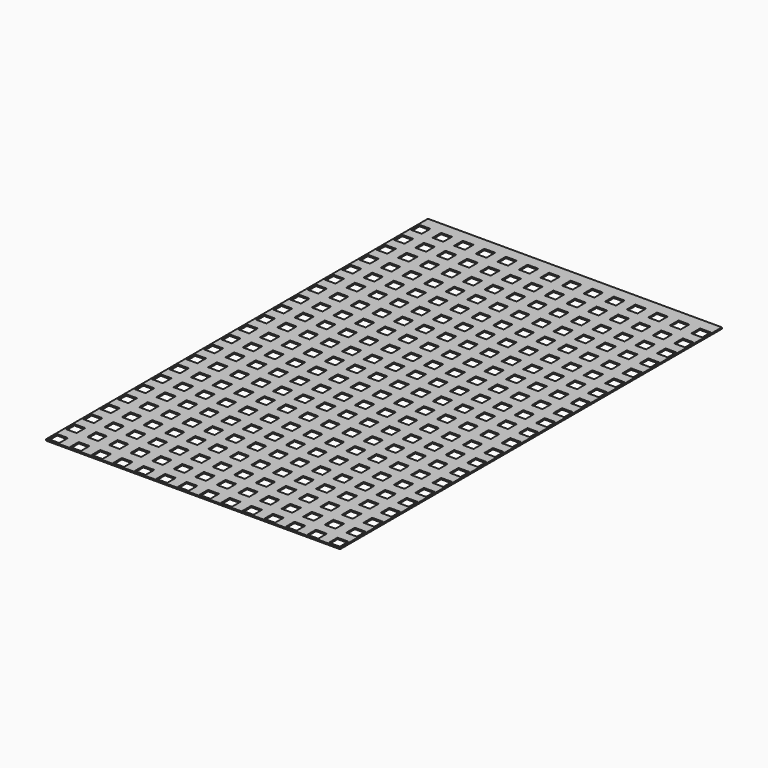
from build123d import *

# Parameters (mm, degrees)
F0_W     = 346.075
F0_H     = 561.975
F0_W_2   = 12.7
F0_H_2   = 12.7
F1_DEPTH = 1.5875


with BuildPart() as f1:
    # F0 (on Top) → F1 (new body)
    with BuildSketch(Plane.XY):
        with Locations((165.1, 273.05)):
            Rectangle(F0_W, F0_H)
        Polygon((-6.35, -6.35), (-6.35, 6.35), (-6.35, 19.05), (-6.35, 31.75), (-6.35, 44.45), (-6.35, 57.15), (-6.35, 69.85), (-6.35, 82.55), (-6.35, 95.25), (-6.35, 107.95), (-6.35, 120.65), (-6.35, 133.35), (-6.35, 146.05), (-6.35, 158.75), (-6.35, 171.45), (-6.35, 184.15), (-6.35, 196.85), (-6.35, 209.55), (-6.35, 222.25), (-6.35, 234.95), (-6.35, 247.65), (-6.35, 260.35), (-6.35, 273.05), (-6.35, 285.75), (-6.35, 298.45), (-6.35, 311.15), (-6.35, 323.85), (-6.35, 336.55), (-6.35, 349.25), (-6.35, 361.95), (-6.35, 374.65), (-6.35, 387.35), (-6.35, 400.05), (-6.35, 412.75), (-6.35, 425.45), (-6.35, 438.15), (-6.35, 450.85), (-6.35, 463.55), (-6.35, 476.25), (-6.35, 488.95), (-6.35, 501.65), (-6.35, 514.35), (-6.35, 527.05), (-6.35, 539.75), (-6.35, 552.45), (336.55, 552.45), (336.55, 539.75), (336.55, 527.05), (336.55, 514.35), (336.55, 501.65), (336.55, 488.95), (336.55, 476.25), (336.55, 463.55), (336.55, 450.85), (336.55, 438.15), (336.55, 425.45), (336.55, 412.75), (336.55, 400.05), (336.55, 387.35), (336.55, 374.65), (336.55, 361.95), (336.55, 349.25), (336.55, 336.55), (336.55, 323.85), (336.55, 311.15), (336.55, 298.45), (336.55, 285.75), (336.55, 273.05), (336.55, 260.35), (336.55, 247.65), (336.55, 234.95), (336.55, 222.25), (336.55, 209.55), (336.55, 196.85), (336.55, 184.15), (336.55, 171.45), (336.55, 158.75), (336.55, 146.05), (336.55, 133.35), (336.55, 120.65), (336.55, 107.95), (336.55, 95.25), (336.55, 82.55), (336.55, 69.85), (336.55, 57.15), (336.55, 44.45), (336.55, 31.75), (336.55, 19.05), (336.55, 6.35), (336.55, -6.35), (323.85, -6.35), (311.15, -6.35), (298.45, -6.35), (285.75, -6.35), (273.05, -6.35), (260.35, -6.35), (247.65, -6.35), (234.95, -6.35), (222.25, -6.35), (209.55, -6.35), (196.85, -6.35), (184.15, -6.35), (171.45, -6.35), (158.75, -6.35), (146.05, -6.35), (133.35, -6.35), (120.65, -6.35), (107.95, -6.35), (95.25, -6.35), (82.55, -6.35), (69.85, -6.35), (57.15, -6.35), (44.45, -6.35), (31.75, -6.35), (19.05, -6.35), (6.35, -6.35), align=None, mode=Mode.SUBTRACT)
        Polygon((-6.35, 6.35), (6.35, 6.35), (6.35, -6.35), (19.05, -6.35), (19.05, 6.35), (31.75, 6.35), (31.75, -6.35), (44.45, -6.35), (44.45, 6.35), (57.15, 6.35), (57.15, -6.35), (69.85, -6.35), (69.85, 6.35), (82.55, 6.35), (82.55, -6.35), (95.25, -6.35), (95.25, 6.35), (107.95, 6.35), (107.95, -6.35), (120.65, -6.35), (120.65, 6.35), (133.35, 6.35), (133.35, -6.35), (146.05, -6.35), (146.05, 6.35), (158.75, 6.35), (158.75, -6.35), (171.45, -6.35), (171.45, 6.35), (184.15, 6.35), (184.15, -6.35), (196.85, -6.35), (196.85, 6.35), (209.55, 6.35), (209.55, -6.35), (222.25, -6.35), (222.25, 6.35), (234.95, 6.35), (234.95, -6.35), (247.65, -6.35), (247.65, 6.35), (260.35, 6.35), (260.35, -6.35), (273.05, -6.35), (273.05, 6.35), (285.75, 6.35), (285.75, -6.35), (298.45, -6.35), (298.45, 6.35), (311.15, 6.35), (311.15, -6.35), (323.85, -6.35), (323.85, 6.35), (336.55, 6.35), (336.55, 19.05), (323.85, 19.05), (323.85, 31.75), (336.55, 31.75), (336.55, 44.45), (323.85, 44.45), (323.85, 57.15), (336.55, 57.15), (336.55, 69.85), (323.85, 69.85), (323.85, 82.55), (336.55, 82.55), (336.55, 95.25), (323.85, 95.25), (323.85, 107.95), (336.55, 107.95), (336.55, 120.65), (323.85, 120.65), (323.85, 133.35), (336.55, 133.35), (336.55, 146.05), (323.85, 146.05), (323.85, 158.75), (336.55, 158.75), (336.55, 171.45), (323.85, 171.45), (323.85, 184.15), (336.55, 184.15), (336.55, 196.85), (323.85, 196.85), (323.85, 209.55), (336.55, 209.55), (336.55, 222.25), (323.85, 222.25), (323.85, 234.95), (336.55, 234.95), (336.55, 247.65), (323.85, 247.65), (323.85, 260.35), (336.55, 260.35), (336.55, 273.05), (323.85, 273.05), (323.85, 285.75), (336.55, 285.75), (336.55, 298.45), (323.85, 298.45), (323.85, 311.15), (336.55, 311.15), (336.55, 323.85), (323.85, 323.85), (323.85, 336.55), (336.55, 336.55), (336.55, 349.25), (323.85, 349.25), (323.85, 361.95), (336.55, 361.95), (336.55, 374.65), (323.85, 374.65), (323.85, 387.35), (336.55, 387.35), (336.55, 400.05), (323.85, 400.05), (323.85, 412.75), (336.55, 412.75), (336.55, 425.45), (323.85, 425.45), (323.85, 438.15), (336.55, 438.15), (336.55, 450.85), (323.85, 450.85), (323.85, 463.55), (336.55, 463.55), (336.55, 476.25), (323.85, 476.25), (323.85, 488.95), (336.55, 488.95), (336.55, 501.65), (323.85, 501.65), (323.85, 514.35), (336.55, 514.35), (336.55, 527.05), (323.85, 527.05), (323.85, 539.75), (336.55, 539.75), (336.55, 552.45), (-6.35, 552.45), (-6.35, 539.75), (6.35, 539.75), (6.35, 527.05), (-6.35, 527.05), (-6.35, 514.35), (6.35, 514.35), (6.35, 501.65), (-6.35, 501.65), (-6.35, 488.95), (6.35, 488.95), (6.35, 476.25), (-6.35, 476.25), (-6.35, 463.55), (6.35, 463.55), (6.35, 450.85), (-6.35, 450.85), (-6.35, 438.15), (6.35, 438.15), (6.35, 425.45), (-6.35, 425.45), (-6.35, 412.75), (6.35, 412.75), (6.35, 400.05), (-6.35, 400.05), (-6.35, 387.35), (6.35, 387.35), (6.35, 374.65), (-6.35, 374.65), (-6.35, 361.95), (6.35, 361.95), (6.35, 349.25), (-6.35, 349.25), (-6.35, 336.55), (6.35, 336.55), (6.35, 323.85), (-6.35, 323.85), (-6.35, 311.15), (6.35, 311.15), (6.35, 298.45), (-6.35, 298.45), (-6.35, 285.75), (6.35, 285.75), (6.35, 273.05), (-6.35, 273.05), (-6.35, 260.35), (6.35, 260.35), (6.35, 247.65), (-6.35, 247.65), (-6.35, 234.95), (6.35, 234.95), (6.35, 222.25), (-6.35, 222.25), (-6.35, 209.55), (6.35, 209.55), (6.35, 196.85), (-6.35, 196.85), (-6.35, 184.15), (6.35, 184.15), (6.35, 171.45), (-6.35, 171.45), (-6.35, 158.75), (6.35, 158.75), (6.35, 146.05), (-6.35, 146.05), (-6.35, 133.35), (6.35, 133.35), (6.35, 120.65), (-6.35, 120.65), (-6.35, 107.95), (6.35, 107.95), (6.35, 95.25), (-6.35, 95.25), (-6.35, 82.55), (6.35, 82.55), (6.35, 69.85), (-6.35, 69.85), (-6.35, 57.15), (6.35, 57.15), (6.35, 44.45), (-6.35, 44.45), (-6.35, 31.75), (6.35, 31.75), (6.35, 19.05), (-6.35, 19.05), align=None)
        with Locations((25.4, 25.4)):
            Rectangle(F0_W_2, F0_H_2, mode=Mode.SUBTRACT)
        with Locations((25.4, 50.8)):
            Rectangle(F0_W_2, F0_H_2, mode=Mode.SUBTRACT)
        with Locations((50.8, 25.4)):
            Rectangle(F0_W_2, F0_H_2, mode=Mode.SUBTRACT)
        with Locations((76.2, 25.4)):
            Rectangle(F0_W_2, F0_H_2, mode=Mode.SUBTRACT)
        with Locations((50.8, 50.8)):
            Rectangle(F0_W_2, F0_H_2, mode=Mode.SUBTRACT)
        with Locations((76.2, 50.8)):
            Rectangle(F0_W_2, F0_H_2, mode=Mode.SUBTRACT)
        with Locations((25.4, 76.2)):
            Rectangle(F0_W_2, F0_H_2, mode=Mode.SUBTRACT)
        with Locations((25.4, 101.6)):
            Rectangle(F0_W_2, F0_H_2, mode=Mode.SUBTRACT)
        with Locations((25.4, 127)):
            Rectangle(F0_W_2, F0_H_2, mode=Mode.SUBTRACT)
        with Locations((50.8, 76.2)):
            Rectangle(F0_W_2, F0_H_2, mode=Mode.SUBTRACT)
        with Locations((76.2, 76.2)):
            Rectangle(F0_W_2, F0_H_2, mode=Mode.SUBTRACT)
        with Locations((50.8, 101.6)):
            Rectangle(F0_W_2, F0_H_2, mode=Mode.SUBTRACT)
        with Locations((50.8, 127)):
            Rectangle(F0_W_2, F0_H_2, mode=Mode.SUBTRACT)
        with Locations((76.2, 101.6)):
            Rectangle(F0_W_2, F0_H_2, mode=Mode.SUBTRACT)
        with Locations((76.2, 127)):
            Rectangle(F0_W_2, F0_H_2, mode=Mode.SUBTRACT)
        with Locations((101.6, 25.4)):
            Rectangle(F0_W_2, F0_H_2, mode=Mode.SUBTRACT)
        with Locations((101.6, 50.8)):
            Rectangle(F0_W_2, F0_H_2, mode=Mode.SUBTRACT)
        with Locations((127, 25.4)):
            Rectangle(F0_W_2, F0_H_2, mode=Mode.SUBTRACT)
        with Locations((152.4, 25.4)):
            Rectangle(F0_W_2, F0_H_2, mode=Mode.SUBTRACT)
        with Locations((127, 50.8)):
            Rectangle(F0_W_2, F0_H_2, mode=Mode.SUBTRACT)
        with Locations((152.4, 50.8)):
            Rectangle(F0_W_2, F0_H_2, mode=Mode.SUBTRACT)
        with Locations((101.6, 76.2)):
            Rectangle(F0_W_2, F0_H_2, mode=Mode.SUBTRACT)
        with Locations((101.6, 101.6)):
            Rectangle(F0_W_2, F0_H_2, mode=Mode.SUBTRACT)
        with Locations((101.6, 127)):
            Rectangle(F0_W_2, F0_H_2, mode=Mode.SUBTRACT)
        with Locations((127, 76.2)):
            Rectangle(F0_W_2, F0_H_2, mode=Mode.SUBTRACT)
        with Locations((152.4, 76.2)):
            Rectangle(F0_W_2, F0_H_2, mode=Mode.SUBTRACT)
        with Locations((127, 101.6)):
            Rectangle(F0_W_2, F0_H_2, mode=Mode.SUBTRACT)
        with Locations((127, 127)):
            Rectangle(F0_W_2, F0_H_2, mode=Mode.SUBTRACT)
        with Locations((152.4, 101.6)):
            Rectangle(F0_W_2, F0_H_2, mode=Mode.SUBTRACT)
        with Locations((152.4, 127)):
            Rectangle(F0_W_2, F0_H_2, mode=Mode.SUBTRACT)
        with Locations((25.4, 152.4)):
            Rectangle(F0_W_2, F0_H_2, mode=Mode.SUBTRACT)
        with Locations((25.4, 177.8)):
            Rectangle(F0_W_2, F0_H_2, mode=Mode.SUBTRACT)
        with Locations((50.8, 152.4)):
            Rectangle(F0_W_2, F0_H_2, mode=Mode.SUBTRACT)
        with Locations((76.2, 152.4)):
            Rectangle(F0_W_2, F0_H_2, mode=Mode.SUBTRACT)
        with Locations((50.8, 177.8)):
            Rectangle(F0_W_2, F0_H_2, mode=Mode.SUBTRACT)
        with Locations((76.2, 177.8)):
            Rectangle(F0_W_2, F0_H_2, mode=Mode.SUBTRACT)
        with Locations((25.4, 203.2)):
            Rectangle(F0_W_2, F0_H_2, mode=Mode.SUBTRACT)
        with Locations((25.4, 228.6)):
            Rectangle(F0_W_2, F0_H_2, mode=Mode.SUBTRACT)
        with Locations((25.4, 254)):
            Rectangle(F0_W_2, F0_H_2, mode=Mode.SUBTRACT)
        with Locations((50.8, 203.2)):
            Rectangle(F0_W_2, F0_H_2, mode=Mode.SUBTRACT)
        with Locations((50.8, 228.6)):
            Rectangle(F0_W_2, F0_H_2, mode=Mode.SUBTRACT)
        with Locations((76.2, 203.2)):
            Rectangle(F0_W_2, F0_H_2, mode=Mode.SUBTRACT)
        with Locations((76.2, 228.6)):
            Rectangle(F0_W_2, F0_H_2, mode=Mode.SUBTRACT)
        with Locations((50.8, 254)):
            Rectangle(F0_W_2, F0_H_2, mode=Mode.SUBTRACT)
        with Locations((76.2, 254)):
            Rectangle(F0_W_2, F0_H_2, mode=Mode.SUBTRACT)
        with Locations((101.6, 152.4)):
            Rectangle(F0_W_2, F0_H_2, mode=Mode.SUBTRACT)
        with Locations((101.6, 177.8)):
            Rectangle(F0_W_2, F0_H_2, mode=Mode.SUBTRACT)
        with Locations((127, 152.4)):
            Rectangle(F0_W_2, F0_H_2, mode=Mode.SUBTRACT)
        with Locations((152.4, 152.4)):
            Rectangle(F0_W_2, F0_H_2, mode=Mode.SUBTRACT)
        with Locations((127, 177.8)):
            Rectangle(F0_W_2, F0_H_2, mode=Mode.SUBTRACT)
        with Locations((152.4, 177.8)):
            Rectangle(F0_W_2, F0_H_2, mode=Mode.SUBTRACT)
        with Locations((101.6, 203.2)):
            Rectangle(F0_W_2, F0_H_2, mode=Mode.SUBTRACT)
        with Locations((101.6, 228.6)):
            Rectangle(F0_W_2, F0_H_2, mode=Mode.SUBTRACT)
        with Locations((101.6, 254)):
            Rectangle(F0_W_2, F0_H_2, mode=Mode.SUBTRACT)
        with Locations((127, 203.2)):
            Rectangle(F0_W_2, F0_H_2, mode=Mode.SUBTRACT)
        with Locations((127, 228.6)):
            Rectangle(F0_W_2, F0_H_2, mode=Mode.SUBTRACT)
        with Locations((152.4, 203.2)):
            Rectangle(F0_W_2, F0_H_2, mode=Mode.SUBTRACT)
        with Locations((152.4, 228.6)):
            Rectangle(F0_W_2, F0_H_2, mode=Mode.SUBTRACT)
        with Locations((127, 254)):
            Rectangle(F0_W_2, F0_H_2, mode=Mode.SUBTRACT)
        with Locations((152.4, 254)):
            Rectangle(F0_W_2, F0_H_2, mode=Mode.SUBTRACT)
        with Locations((177.8, 25.4)):
            Rectangle(F0_W_2, F0_H_2, mode=Mode.SUBTRACT)
        with Locations((203.2, 25.4)):
            Rectangle(F0_W_2, F0_H_2, mode=Mode.SUBTRACT)
        with Locations((177.8, 50.8)):
            Rectangle(F0_W_2, F0_H_2, mode=Mode.SUBTRACT)
        with Locations((203.2, 50.8)):
            Rectangle(F0_W_2, F0_H_2, mode=Mode.SUBTRACT)
        with Locations((228.6, 25.4)):
            Rectangle(F0_W_2, F0_H_2, mode=Mode.SUBTRACT)
        with Locations((228.6, 50.8)):
            Rectangle(F0_W_2, F0_H_2, mode=Mode.SUBTRACT)
        with Locations((177.8, 76.2)):
            Rectangle(F0_W_2, F0_H_2, mode=Mode.SUBTRACT)
        with Locations((203.2, 76.2)):
            Rectangle(F0_W_2, F0_H_2, mode=Mode.SUBTRACT)
        with Locations((177.8, 101.6)):
            Rectangle(F0_W_2, F0_H_2, mode=Mode.SUBTRACT)
        with Locations((177.8, 127)):
            Rectangle(F0_W_2, F0_H_2, mode=Mode.SUBTRACT)
        with Locations((203.2, 101.6)):
            Rectangle(F0_W_2, F0_H_2, mode=Mode.SUBTRACT)
        with Locations((203.2, 127)):
            Rectangle(F0_W_2, F0_H_2, mode=Mode.SUBTRACT)
        with Locations((228.6, 76.2)):
            Rectangle(F0_W_2, F0_H_2, mode=Mode.SUBTRACT)
        with Locations((228.6, 101.6)):
            Rectangle(F0_W_2, F0_H_2, mode=Mode.SUBTRACT)
        with Locations((228.6, 127)):
            Rectangle(F0_W_2, F0_H_2, mode=Mode.SUBTRACT)
        with Locations((254, 25.4)):
            Rectangle(F0_W_2, F0_H_2, mode=Mode.SUBTRACT)
        with Locations((279.4, 25.4)):
            Rectangle(F0_W_2, F0_H_2, mode=Mode.SUBTRACT)
        with Locations((254, 50.8)):
            Rectangle(F0_W_2, F0_H_2, mode=Mode.SUBTRACT)
        with Locations((279.4, 50.8)):
            Rectangle(F0_W_2, F0_H_2, mode=Mode.SUBTRACT)
        with Locations((304.8, 25.4)):
            Rectangle(F0_W_2, F0_H_2, mode=Mode.SUBTRACT)
        with Locations((304.8, 50.8)):
            Rectangle(F0_W_2, F0_H_2, mode=Mode.SUBTRACT)
        with Locations((254, 76.2)):
            Rectangle(F0_W_2, F0_H_2, mode=Mode.SUBTRACT)
        with Locations((279.4, 76.2)):
            Rectangle(F0_W_2, F0_H_2, mode=Mode.SUBTRACT)
        with Locations((254, 101.6)):
            Rectangle(F0_W_2, F0_H_2, mode=Mode.SUBTRACT)
        with Locations((254, 127)):
            Rectangle(F0_W_2, F0_H_2, mode=Mode.SUBTRACT)
        with Locations((279.4, 101.6)):
            Rectangle(F0_W_2, F0_H_2, mode=Mode.SUBTRACT)
        with Locations((279.4, 127)):
            Rectangle(F0_W_2, F0_H_2, mode=Mode.SUBTRACT)
        with Locations((304.8, 76.2)):
            Rectangle(F0_W_2, F0_H_2, mode=Mode.SUBTRACT)
        with Locations((304.8, 101.6)):
            Rectangle(F0_W_2, F0_H_2, mode=Mode.SUBTRACT)
        with Locations((304.8, 127)):
            Rectangle(F0_W_2, F0_H_2, mode=Mode.SUBTRACT)
        with Locations((177.8, 152.4)):
            Rectangle(F0_W_2, F0_H_2, mode=Mode.SUBTRACT)
        with Locations((203.2, 152.4)):
            Rectangle(F0_W_2, F0_H_2, mode=Mode.SUBTRACT)
        with Locations((177.8, 177.8)):
            Rectangle(F0_W_2, F0_H_2, mode=Mode.SUBTRACT)
        with Locations((203.2, 177.8)):
            Rectangle(F0_W_2, F0_H_2, mode=Mode.SUBTRACT)
        with Locations((228.6, 152.4)):
            Rectangle(F0_W_2, F0_H_2, mode=Mode.SUBTRACT)
        with Locations((228.6, 177.8)):
            Rectangle(F0_W_2, F0_H_2, mode=Mode.SUBTRACT)
        with Locations((177.8, 203.2)):
            Rectangle(F0_W_2, F0_H_2, mode=Mode.SUBTRACT)
        with Locations((177.8, 228.6)):
            Rectangle(F0_W_2, F0_H_2, mode=Mode.SUBTRACT)
        with Locations((203.2, 203.2)):
            Rectangle(F0_W_2, F0_H_2, mode=Mode.SUBTRACT)
        with Locations((203.2, 228.6)):
            Rectangle(F0_W_2, F0_H_2, mode=Mode.SUBTRACT)
        with Locations((177.8, 254)):
            Rectangle(F0_W_2, F0_H_2, mode=Mode.SUBTRACT)
        with Locations((203.2, 254)):
            Rectangle(F0_W_2, F0_H_2, mode=Mode.SUBTRACT)
        with Locations((228.6, 203.2)):
            Rectangle(F0_W_2, F0_H_2, mode=Mode.SUBTRACT)
        with Locations((228.6, 228.6)):
            Rectangle(F0_W_2, F0_H_2, mode=Mode.SUBTRACT)
        with Locations((228.6, 254)):
            Rectangle(F0_W_2, F0_H_2, mode=Mode.SUBTRACT)
        with Locations((254, 152.4)):
            Rectangle(F0_W_2, F0_H_2, mode=Mode.SUBTRACT)
        with Locations((279.4, 152.4)):
            Rectangle(F0_W_2, F0_H_2, mode=Mode.SUBTRACT)
        with Locations((254, 177.8)):
            Rectangle(F0_W_2, F0_H_2, mode=Mode.SUBTRACT)
        with Locations((279.4, 177.8)):
            Rectangle(F0_W_2, F0_H_2, mode=Mode.SUBTRACT)
        with Locations((304.8, 152.4)):
            Rectangle(F0_W_2, F0_H_2, mode=Mode.SUBTRACT)
        with Locations((304.8, 177.8)):
            Rectangle(F0_W_2, F0_H_2, mode=Mode.SUBTRACT)
        with Locations((254, 203.2)):
            Rectangle(F0_W_2, F0_H_2, mode=Mode.SUBTRACT)
        with Locations((254, 228.6)):
            Rectangle(F0_W_2, F0_H_2, mode=Mode.SUBTRACT)
        with Locations((279.4, 203.2)):
            Rectangle(F0_W_2, F0_H_2, mode=Mode.SUBTRACT)
        with Locations((279.4, 228.6)):
            Rectangle(F0_W_2, F0_H_2, mode=Mode.SUBTRACT)
        with Locations((254, 254)):
            Rectangle(F0_W_2, F0_H_2, mode=Mode.SUBTRACT)
        with Locations((279.4, 254)):
            Rectangle(F0_W_2, F0_H_2, mode=Mode.SUBTRACT)
        with Locations((304.8, 203.2)):
            Rectangle(F0_W_2, F0_H_2, mode=Mode.SUBTRACT)
        with Locations((304.8, 228.6)):
            Rectangle(F0_W_2, F0_H_2, mode=Mode.SUBTRACT)
        with Locations((304.8, 254)):
            Rectangle(F0_W_2, F0_H_2, mode=Mode.SUBTRACT)
        with Locations((25.4, 279.4)):
            Rectangle(F0_W_2, F0_H_2, mode=Mode.SUBTRACT)
        with Locations((25.4, 304.8)):
            Rectangle(F0_W_2, F0_H_2, mode=Mode.SUBTRACT)
        with Locations((25.4, 330.2)):
            Rectangle(F0_W_2, F0_H_2, mode=Mode.SUBTRACT)
        with Locations((50.8, 279.4)):
            Rectangle(F0_W_2, F0_H_2, mode=Mode.SUBTRACT)
        with Locations((50.8, 304.8)):
            Rectangle(F0_W_2, F0_H_2, mode=Mode.SUBTRACT)
        with Locations((76.2, 279.4)):
            Rectangle(F0_W_2, F0_H_2, mode=Mode.SUBTRACT)
        with Locations((76.2, 304.8)):
            Rectangle(F0_W_2, F0_H_2, mode=Mode.SUBTRACT)
        with Locations((50.8, 330.2)):
            Rectangle(F0_W_2, F0_H_2, mode=Mode.SUBTRACT)
        with Locations((76.2, 330.2)):
            Rectangle(F0_W_2, F0_H_2, mode=Mode.SUBTRACT)
        with Locations((25.4, 355.6)):
            Rectangle(F0_W_2, F0_H_2, mode=Mode.SUBTRACT)
        with Locations((25.4, 381)):
            Rectangle(F0_W_2, F0_H_2, mode=Mode.SUBTRACT)
        with Locations((25.4, 406.4)):
            Rectangle(F0_W_2, F0_H_2, mode=Mode.SUBTRACT)
        with Locations((50.8, 355.6)):
            Rectangle(F0_W_2, F0_H_2, mode=Mode.SUBTRACT)
        with Locations((76.2, 355.6)):
            Rectangle(F0_W_2, F0_H_2, mode=Mode.SUBTRACT)
        with Locations((50.8, 381)):
            Rectangle(F0_W_2, F0_H_2, mode=Mode.SUBTRACT)
        with Locations((50.8, 406.4)):
            Rectangle(F0_W_2, F0_H_2, mode=Mode.SUBTRACT)
        with Locations((76.2, 381)):
            Rectangle(F0_W_2, F0_H_2, mode=Mode.SUBTRACT)
        with Locations((76.2, 406.4)):
            Rectangle(F0_W_2, F0_H_2, mode=Mode.SUBTRACT)
        with Locations((101.6, 279.4)):
            Rectangle(F0_W_2, F0_H_2, mode=Mode.SUBTRACT)
        with Locations((101.6, 304.8)):
            Rectangle(F0_W_2, F0_H_2, mode=Mode.SUBTRACT)
        with Locations((101.6, 330.2)):
            Rectangle(F0_W_2, F0_H_2, mode=Mode.SUBTRACT)
        with Locations((127, 279.4)):
            Rectangle(F0_W_2, F0_H_2, mode=Mode.SUBTRACT)
        with Locations((127, 304.8)):
            Rectangle(F0_W_2, F0_H_2, mode=Mode.SUBTRACT)
        with Locations((152.4, 279.4)):
            Rectangle(F0_W_2, F0_H_2, mode=Mode.SUBTRACT)
        with Locations((152.4, 304.8)):
            Rectangle(F0_W_2, F0_H_2, mode=Mode.SUBTRACT)
        with Locations((127, 330.2)):
            Rectangle(F0_W_2, F0_H_2, mode=Mode.SUBTRACT)
        with Locations((152.4, 330.2)):
            Rectangle(F0_W_2, F0_H_2, mode=Mode.SUBTRACT)
        with Locations((101.6, 355.6)):
            Rectangle(F0_W_2, F0_H_2, mode=Mode.SUBTRACT)
        with Locations((101.6, 381)):
            Rectangle(F0_W_2, F0_H_2, mode=Mode.SUBTRACT)
        with Locations((101.6, 406.4)):
            Rectangle(F0_W_2, F0_H_2, mode=Mode.SUBTRACT)
        with Locations((127, 355.6)):
            Rectangle(F0_W_2, F0_H_2, mode=Mode.SUBTRACT)
        with Locations((152.4, 355.6)):
            Rectangle(F0_W_2, F0_H_2, mode=Mode.SUBTRACT)
        with Locations((127, 381)):
            Rectangle(F0_W_2, F0_H_2, mode=Mode.SUBTRACT)
        with Locations((127, 406.4)):
            Rectangle(F0_W_2, F0_H_2, mode=Mode.SUBTRACT)
        with Locations((152.4, 381)):
            Rectangle(F0_W_2, F0_H_2, mode=Mode.SUBTRACT)
        with Locations((152.4, 406.4)):
            Rectangle(F0_W_2, F0_H_2, mode=Mode.SUBTRACT)
        with Locations((25.4, 431.8)):
            Rectangle(F0_W_2, F0_H_2, mode=Mode.SUBTRACT)
        with Locations((25.4, 457.2)):
            Rectangle(F0_W_2, F0_H_2, mode=Mode.SUBTRACT)
        with Locations((25.4, 482.6)):
            Rectangle(F0_W_2, F0_H_2, mode=Mode.SUBTRACT)
        with Locations((50.8, 431.8)):
            Rectangle(F0_W_2, F0_H_2, mode=Mode.SUBTRACT)
        with Locations((76.2, 431.8)):
            Rectangle(F0_W_2, F0_H_2, mode=Mode.SUBTRACT)
        with Locations((50.8, 457.2)):
            Rectangle(F0_W_2, F0_H_2, mode=Mode.SUBTRACT)
        with Locations((50.8, 482.6)):
            Rectangle(F0_W_2, F0_H_2, mode=Mode.SUBTRACT)
        with Locations((76.2, 457.2)):
            Rectangle(F0_W_2, F0_H_2, mode=Mode.SUBTRACT)
        with Locations((76.2, 482.6)):
            Rectangle(F0_W_2, F0_H_2, mode=Mode.SUBTRACT)
        with Locations((25.4, 508)):
            Rectangle(F0_W_2, F0_H_2, mode=Mode.SUBTRACT)
        with Locations((25.4, 533.4)):
            Rectangle(F0_W_2, F0_H_2, mode=Mode.SUBTRACT)
        with Locations((50.8, 508)):
            Rectangle(F0_W_2, F0_H_2, mode=Mode.SUBTRACT)
        with Locations((76.2, 508)):
            Rectangle(F0_W_2, F0_H_2, mode=Mode.SUBTRACT)
        with Locations((50.8, 533.4)):
            Rectangle(F0_W_2, F0_H_2, mode=Mode.SUBTRACT)
        with Locations((76.2, 533.4)):
            Rectangle(F0_W_2, F0_H_2, mode=Mode.SUBTRACT)
        with Locations((101.6, 431.8)):
            Rectangle(F0_W_2, F0_H_2, mode=Mode.SUBTRACT)
        with Locations((101.6, 457.2)):
            Rectangle(F0_W_2, F0_H_2, mode=Mode.SUBTRACT)
        with Locations((101.6, 482.6)):
            Rectangle(F0_W_2, F0_H_2, mode=Mode.SUBTRACT)
        with Locations((127, 431.8)):
            Rectangle(F0_W_2, F0_H_2, mode=Mode.SUBTRACT)
        with Locations((152.4, 431.8)):
            Rectangle(F0_W_2, F0_H_2, mode=Mode.SUBTRACT)
        with Locations((127, 457.2)):
            Rectangle(F0_W_2, F0_H_2, mode=Mode.SUBTRACT)
        with Locations((127, 482.6)):
            Rectangle(F0_W_2, F0_H_2, mode=Mode.SUBTRACT)
        with Locations((152.4, 457.2)):
            Rectangle(F0_W_2, F0_H_2, mode=Mode.SUBTRACT)
        with Locations((152.4, 482.6)):
            Rectangle(F0_W_2, F0_H_2, mode=Mode.SUBTRACT)
        with Locations((101.6, 508)):
            Rectangle(F0_W_2, F0_H_2, mode=Mode.SUBTRACT)
        with Locations((101.6, 533.4)):
            Rectangle(F0_W_2, F0_H_2, mode=Mode.SUBTRACT)
        with Locations((127, 508)):
            Rectangle(F0_W_2, F0_H_2, mode=Mode.SUBTRACT)
        with Locations((152.4, 508)):
            Rectangle(F0_W_2, F0_H_2, mode=Mode.SUBTRACT)
        with Locations((127, 533.4)):
            Rectangle(F0_W_2, F0_H_2, mode=Mode.SUBTRACT)
        with Locations((152.4, 533.4)):
            Rectangle(F0_W_2, F0_H_2, mode=Mode.SUBTRACT)
        with Locations((177.8, 279.4)):
            Rectangle(F0_W_2, F0_H_2, mode=Mode.SUBTRACT)
        with Locations((177.8, 304.8)):
            Rectangle(F0_W_2, F0_H_2, mode=Mode.SUBTRACT)
        with Locations((203.2, 279.4)):
            Rectangle(F0_W_2, F0_H_2, mode=Mode.SUBTRACT)
        with Locations((203.2, 304.8)):
            Rectangle(F0_W_2, F0_H_2, mode=Mode.SUBTRACT)
        with Locations((177.8, 330.2)):
            Rectangle(F0_W_2, F0_H_2, mode=Mode.SUBTRACT)
        with Locations((203.2, 330.2)):
            Rectangle(F0_W_2, F0_H_2, mode=Mode.SUBTRACT)
        with Locations((228.6, 279.4)):
            Rectangle(F0_W_2, F0_H_2, mode=Mode.SUBTRACT)
        with Locations((228.6, 304.8)):
            Rectangle(F0_W_2, F0_H_2, mode=Mode.SUBTRACT)
        with Locations((228.6, 330.2)):
            Rectangle(F0_W_2, F0_H_2, mode=Mode.SUBTRACT)
        with Locations((177.8, 355.6)):
            Rectangle(F0_W_2, F0_H_2, mode=Mode.SUBTRACT)
        with Locations((203.2, 355.6)):
            Rectangle(F0_W_2, F0_H_2, mode=Mode.SUBTRACT)
        with Locations((177.8, 381)):
            Rectangle(F0_W_2, F0_H_2, mode=Mode.SUBTRACT)
        with Locations((177.8, 406.4)):
            Rectangle(F0_W_2, F0_H_2, mode=Mode.SUBTRACT)
        with Locations((203.2, 381)):
            Rectangle(F0_W_2, F0_H_2, mode=Mode.SUBTRACT)
        with Locations((203.2, 406.4)):
            Rectangle(F0_W_2, F0_H_2, mode=Mode.SUBTRACT)
        with Locations((228.6, 355.6)):
            Rectangle(F0_W_2, F0_H_2, mode=Mode.SUBTRACT)
        with Locations((228.6, 381)):
            Rectangle(F0_W_2, F0_H_2, mode=Mode.SUBTRACT)
        with Locations((228.6, 406.4)):
            Rectangle(F0_W_2, F0_H_2, mode=Mode.SUBTRACT)
        with Locations((254, 279.4)):
            Rectangle(F0_W_2, F0_H_2, mode=Mode.SUBTRACT)
        with Locations((254, 304.8)):
            Rectangle(F0_W_2, F0_H_2, mode=Mode.SUBTRACT)
        with Locations((279.4, 279.4)):
            Rectangle(F0_W_2, F0_H_2, mode=Mode.SUBTRACT)
        with Locations((279.4, 304.8)):
            Rectangle(F0_W_2, F0_H_2, mode=Mode.SUBTRACT)
        with Locations((254, 330.2)):
            Rectangle(F0_W_2, F0_H_2, mode=Mode.SUBTRACT)
        with Locations((279.4, 330.2)):
            Rectangle(F0_W_2, F0_H_2, mode=Mode.SUBTRACT)
        with Locations((304.8, 279.4)):
            Rectangle(F0_W_2, F0_H_2, mode=Mode.SUBTRACT)
        with Locations((304.8, 304.8)):
            Rectangle(F0_W_2, F0_H_2, mode=Mode.SUBTRACT)
        with Locations((304.8, 330.2)):
            Rectangle(F0_W_2, F0_H_2, mode=Mode.SUBTRACT)
        with Locations((254, 355.6)):
            Rectangle(F0_W_2, F0_H_2, mode=Mode.SUBTRACT)
        with Locations((279.4, 355.6)):
            Rectangle(F0_W_2, F0_H_2, mode=Mode.SUBTRACT)
        with Locations((254, 381)):
            Rectangle(F0_W_2, F0_H_2, mode=Mode.SUBTRACT)
        with Locations((254, 406.4)):
            Rectangle(F0_W_2, F0_H_2, mode=Mode.SUBTRACT)
        with Locations((279.4, 381)):
            Rectangle(F0_W_2, F0_H_2, mode=Mode.SUBTRACT)
        with Locations((279.4, 406.4)):
            Rectangle(F0_W_2, F0_H_2, mode=Mode.SUBTRACT)
        with Locations((304.8, 355.6)):
            Rectangle(F0_W_2, F0_H_2, mode=Mode.SUBTRACT)
        with Locations((304.8, 381)):
            Rectangle(F0_W_2, F0_H_2, mode=Mode.SUBTRACT)
        with Locations((304.8, 406.4)):
            Rectangle(F0_W_2, F0_H_2, mode=Mode.SUBTRACT)
        with Locations((177.8, 431.8)):
            Rectangle(F0_W_2, F0_H_2, mode=Mode.SUBTRACT)
        with Locations((203.2, 431.8)):
            Rectangle(F0_W_2, F0_H_2, mode=Mode.SUBTRACT)
        with Locations((177.8, 457.2)):
            Rectangle(F0_W_2, F0_H_2, mode=Mode.SUBTRACT)
        with Locations((177.8, 482.6)):
            Rectangle(F0_W_2, F0_H_2, mode=Mode.SUBTRACT)
        with Locations((203.2, 457.2)):
            Rectangle(F0_W_2, F0_H_2, mode=Mode.SUBTRACT)
        with Locations((203.2, 482.6)):
            Rectangle(F0_W_2, F0_H_2, mode=Mode.SUBTRACT)
        with Locations((228.6, 431.8)):
            Rectangle(F0_W_2, F0_H_2, mode=Mode.SUBTRACT)
        with Locations((228.6, 457.2)):
            Rectangle(F0_W_2, F0_H_2, mode=Mode.SUBTRACT)
        with Locations((228.6, 482.6)):
            Rectangle(F0_W_2, F0_H_2, mode=Mode.SUBTRACT)
        with Locations((177.8, 508)):
            Rectangle(F0_W_2, F0_H_2, mode=Mode.SUBTRACT)
        with Locations((203.2, 508)):
            Rectangle(F0_W_2, F0_H_2, mode=Mode.SUBTRACT)
        with Locations((177.8, 533.4)):
            Rectangle(F0_W_2, F0_H_2, mode=Mode.SUBTRACT)
        with Locations((203.2, 533.4)):
            Rectangle(F0_W_2, F0_H_2, mode=Mode.SUBTRACT)
        with Locations((228.6, 508)):
            Rectangle(F0_W_2, F0_H_2, mode=Mode.SUBTRACT)
        with Locations((228.6, 533.4)):
            Rectangle(F0_W_2, F0_H_2, mode=Mode.SUBTRACT)
        with Locations((254, 431.8)):
            Rectangle(F0_W_2, F0_H_2, mode=Mode.SUBTRACT)
        with Locations((279.4, 431.8)):
            Rectangle(F0_W_2, F0_H_2, mode=Mode.SUBTRACT)
        with Locations((254, 457.2)):
            Rectangle(F0_W_2, F0_H_2, mode=Mode.SUBTRACT)
        with Locations((254, 482.6)):
            Rectangle(F0_W_2, F0_H_2, mode=Mode.SUBTRACT)
        with Locations((279.4, 457.2)):
            Rectangle(F0_W_2, F0_H_2, mode=Mode.SUBTRACT)
        with Locations((279.4, 482.6)):
            Rectangle(F0_W_2, F0_H_2, mode=Mode.SUBTRACT)
        with Locations((304.8, 431.8)):
            Rectangle(F0_W_2, F0_H_2, mode=Mode.SUBTRACT)
        with Locations((304.8, 457.2)):
            Rectangle(F0_W_2, F0_H_2, mode=Mode.SUBTRACT)
        with Locations((304.8, 482.6)):
            Rectangle(F0_W_2, F0_H_2, mode=Mode.SUBTRACT)
        with Locations((254, 508)):
            Rectangle(F0_W_2, F0_H_2, mode=Mode.SUBTRACT)
        with Locations((279.4, 508)):
            Rectangle(F0_W_2, F0_H_2, mode=Mode.SUBTRACT)
        with Locations((254, 533.4)):
            Rectangle(F0_W_2, F0_H_2, mode=Mode.SUBTRACT)
        with Locations((279.4, 533.4)):
            Rectangle(F0_W_2, F0_H_2, mode=Mode.SUBTRACT)
        with Locations((304.8, 508)):
            Rectangle(F0_W_2, F0_H_2, mode=Mode.SUBTRACT)
        with Locations((304.8, 533.4)):
            Rectangle(F0_W_2, F0_H_2, mode=Mode.SUBTRACT)
    extrude(amount=F1_DEPTH)


solid = f1.part
